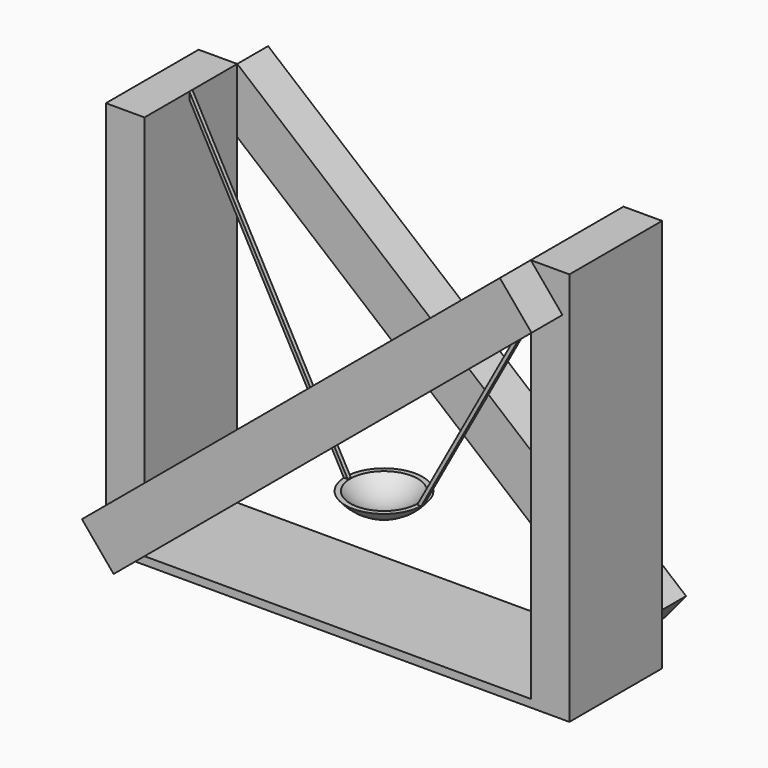
from build123d import *

# Parameters (mm, degrees)
F2_T      = -2.54
F3_W      = 25.4
F3_H      = 254
F4_DEPTH  = 38.1
F7_DEPTH  = 25.4
F12_DEPTH = 1.27
F14_W     = 304.8
F14_H     = 76.2
F15_DEPTH = 5.08


with BuildPart() as f1:
    # F0 (on Front) → F1 (revolve)
    with BuildSketch(Plane.XZ):
        with BuildLine():
            Line((25.4, 0), (0, 0))
            Line((0, 0), (0, -12.7))
            ThreePointArc((0, -12.7), (14.1990316571, -9.3480633142), (25.4, 0))
        make_face()
    revolve(axis=Axis((0, 0, -6.35), (0, 0, -1)))

    # F2
    f2_openings = [f1.faces().sort_by_distance(p)[0] for p in [
        (0, 0, 0),
    ]]
    offset(amount=F2_T, openings=f2_openings)



with BuildPart() as f4:
    # F3 (on Front) → F4 (new body, symmetric)
    with BuildSketch(Plane.XZ):
        with Locations((139.7, 63.5)):
            Rectangle(F3_W, F3_H)
    extrude(amount=F4_DEPTH, both=True)


with BuildPart() as f5_1:
    # F5: instance of F4
    add(f4.part.mirror(Plane.YZ))


with BuildPart() as f7:
    # F6 (on face) → F7 (new body)
    with BuildSketch(Plane.XZ.offset(38.1)):
        Polygon((147.8155081967, 165.5213901639), (127, 190.5), (-147.8256681967, -38.5213901639), (-127.01016, -63.5), align=None)
    extrude(amount=F7_DEPTH)


with BuildPart() as f8_1:
    # F8: instance of F7
    add(f7.part.mirror(Plane.XZ))


with BuildPart() as f9_1:
    # F9: instance of F8_1
    add(f8_1.part.mirror(Plane.YZ))


with BuildPart() as f12:
    # F11 (on Front) → F12 (new body, symmetric)
    with BuildSketch(Plane.XZ):
        Polygon((-22.86, 0), (-127, 190.5), (-127, 185.8536585366), (-25.4, 0), align=None)
    extrude(amount=F12_DEPTH, both=True)


with BuildPart() as f13_1:
    # F13: instance of F12
    add(f12.part.mirror(Plane.YZ))


with BuildPart() as f1_1:
    add(f1.part)

    add(f4.part)  # F15 merges F4

    add(f5_1.part)  # F15 merges F5_1

    add(f7.part)  # F15 merges F7

    add(f9_1.part)  # F15 merges F9_1

    add(f12.part)  # F15 merges F12

    add(f13_1.part)  # F15 merges F13_1
    # F14 (on face) → F15 (join)
    with BuildSketch(Plane(origin=(0, 0, -63.5), x_dir=(1, 0, 0), z_dir=(0, 0, -1))):
        Rectangle(F14_W, F14_H)
    extrude(amount=F15_DEPTH)


solid = f1_1.part
